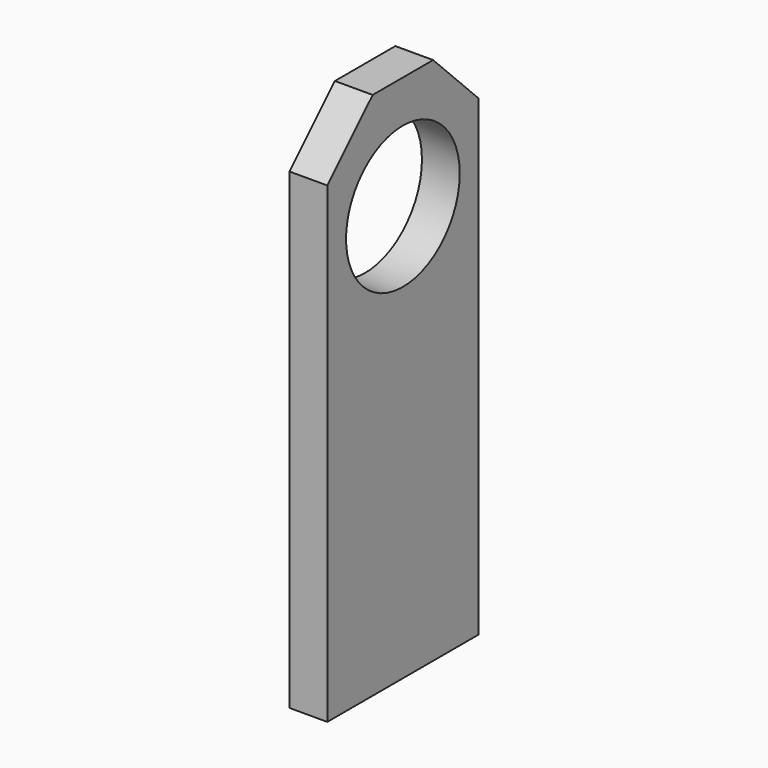
from build123d import *

# Parameters (mm, degrees)
F1_DEPTH = 12.7
F2_R     = 23.876
F3_DEPTH = 12.701
F4_R     = 3.175
F5_DEPTH = 25.4


with BuildPart() as f1:
    # F0 (on Right) → F1 (new body)
    with BuildSketch(Plane.YZ):
        Polygon((12.7, 88.9), (0, 88.9), (-12.7, 88.9), (-31.75, 69.85), (-31.75, -88.9), (0, -88.9), (31.75, -88.9), (31.75, 69.85), align=None)
    extrude(amount=F1_DEPTH)

    # F2 (on Right) → F3 (cut, through all)
    with BuildSketch(Plane.YZ):
        with Locations((0, 50.8)):
            Circle(F2_R)
    extrude(amount=F3_DEPTH, mode=Mode.SUBTRACT)

    # F4 (on face) → F5 (cut)
    with BuildSketch(Plane(origin=(0, 0, -88.9), x_dir=(1, 0, 0), z_dir=(0, 0, -1))):
        with Locations((6.35, 19.05)):
            Circle(F4_R)
        with Locations((6.35, -19.05)):
            Circle(F4_R)
    extrude(amount=-F5_DEPTH, mode=Mode.SUBTRACT)


solid = f1.part
